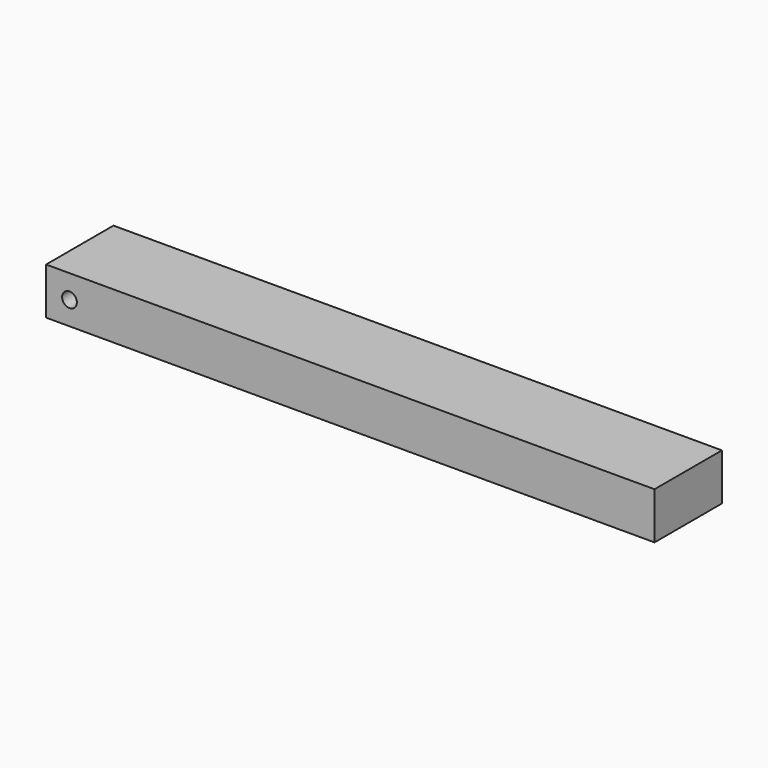
from build123d import *

# Parameters (mm, degrees)
F0_W     = 130
F0_H     = 18
F1_DEPTH = 10
F3_D     = 3.15


with BuildPart() as f1:
    # F0 (on Top) → F1 (new body)
    with BuildSketch(Plane.XY):
        with Locations((65, 9)):
            Rectangle(F0_W, F0_H)
    extrude(amount=F1_DEPTH)

    # F3 (through all)
    with Locations(Plane.XZ):
        with Locations((5, 5)):
            Hole(F3_D / 2)


solid = f1.part
